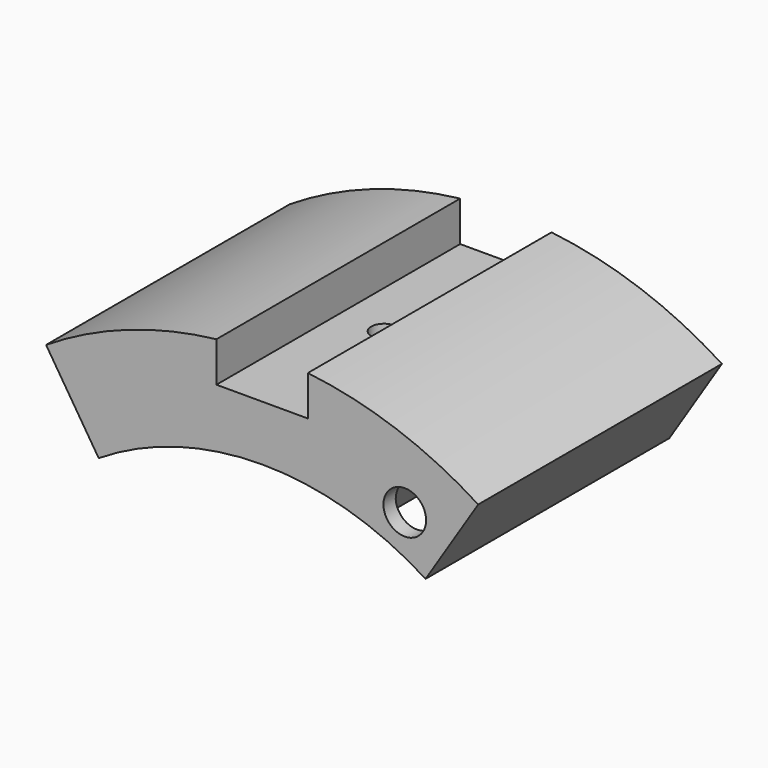
from build123d import *

# Parameters (mm, degrees)
F3_DEPTH  = 50
F7_DEPTH  = 10
F9_D      = 4.2
F9_DEPTH  = 4.8
F9_TIP    = 1.2618073
F11_D     = 7
F11_DEPTH = 28
F11_TIP   = 2.1030121666


with BuildPart() as f3:
    # F2 (on Front) → F3 (new body)
    with BuildSketch(Plane.XZ):
        with BuildLine():
            ThreePointArc((-26.8236083475, 42.1046311493), (-13.9699038675, 47.9285688805), (0, 49.923))
            Line((0, 49.923), (0, 59))
            Line((0, 59), (-7.5, 59))
            Line((-7.5, 59), (-7.5, 65.5724789832))
            ThreePointArc((-7.5, 65.5724789832), (-22.044813763, 62.2095345277), (-35.4617741509, 55.6638354237))
            Line((-35.4617741509, 55.6638354237), (-26.8236083475, 42.1046311493))
        make_face()
        with BuildLine():
            ThreePointArc((0, 49.923), (13.9699038675, 47.9285688805), (26.8236083475, 42.1046311493))
            Line((26.8236083475, 42.1046311493), (35.4617741509, 55.6638354237))
            ThreePointArc((35.4617741509, 55.6638354237), (22.044813763, 62.2095345277), (7.5, 65.5724789832))
            Line((7.5, 65.5724789832), (7.5, 59))
            Line((7.5, 59), (0, 59))
            Line((0, 59), (0, 49.923))
        make_face()
    extrude(amount=F3_DEPTH)

    # F6 (on line) → F7 (cut)
    with BuildSketch(Plane(origin=(20.9552129656, 0, 45.1351855936), x_dir=(0.9070121064, 0, -0.4211045463), z_dir=(0.4211045463, 0, 0.9070121064))):
        with BuildLine():
            ThreePointArc((3, -47.5), (3.7071067812, -47.2071067812), (4, -46.5))
            Line((4, -46.5), (4, -3.5))
            ThreePointArc((4, -3.5), (3.7071067812, -2.7928932188), (3, -2.5))
            Line((3, -2.5), (-3, -2.5))
            ThreePointArc((-3, -2.5), (-3.7071067812, -2.7928932188), (-4, -3.5))
            Line((-4, -3.5), (-4, -46.5))
            ThreePointArc((-4, -46.5), (-3.7071067812, -47.2071067812), (-3, -47.5))
            Line((-3, -47.5), (3, -47.5))
        make_face()
    extrude(amount=F7_DEPTH, mode=Mode.SUBTRACT)

    # F9
    with Locations(Plane.XY.offset(59)):
        with Locations((0, -25)):
            Hole(F9_D / 2, depth=F9_DEPTH)
            with Locations((0, 0, -(F9_DEPTH + F9_TIP / 2))):  # 118° drill point
                Cone(0, F9_D / 2, F9_TIP, mode=Mode.SUBTRACT)

    # F11
    with Locations(Plane.XZ.offset(50)):
        with Locations((23.4093313461, 50.6118115303)):
            Hole(F11_D / 2, depth=F11_DEPTH)
            with Locations((0, 0, -(F11_DEPTH + F11_TIP / 2))):  # 118° drill point
                Cone(0, F11_D / 2, F11_TIP, mode=Mode.SUBTRACT)


solid = f3.part
